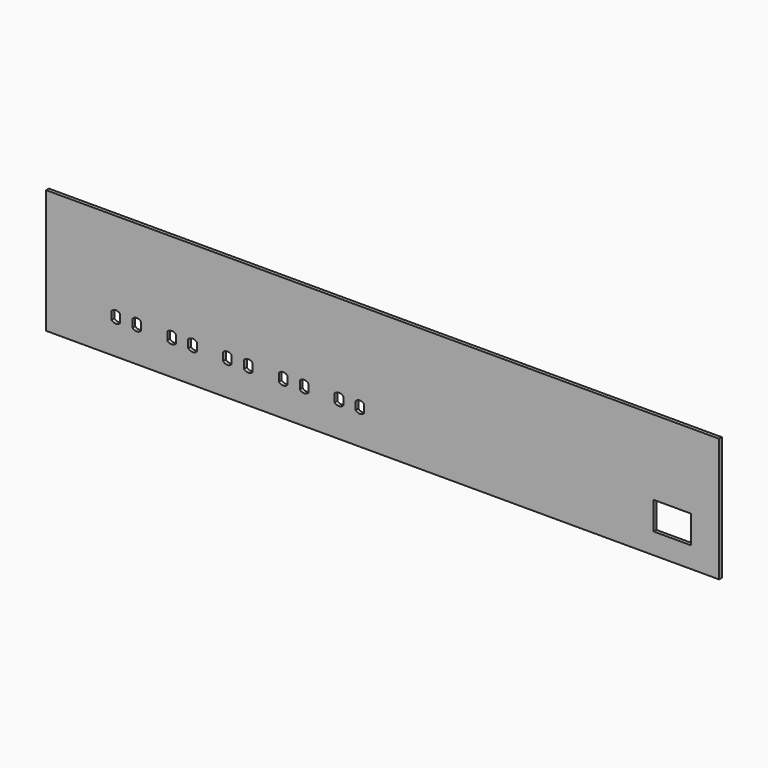
from build123d import *

# Parameters (mm, degrees)
F0_W     = 482.6
F0_H     = 88.8
F2_DEPTH = 2.5
F1_W     = 27
F1_H     = 20
F3_DEPTH = 2.501


with BuildPart() as f2:
    # F0 (on Front) → F2 (new body)
    with BuildSketch(Plane.XZ):
        with Locations((241.3, 44.4)):
            Rectangle(F0_W, F0_H)
    extrude(amount=-F2_DEPTH)

    # F1 (on face) → F3 (cut, through all)
    with BuildSketch(Plane.XZ):
        with Locations((449.1, 25)):
            Rectangle(F1_W, F1_H)
        with BuildLine():
            Line((46.9, 27.907318), (46.9, 22.092682))
            ThreePointArc((46.9, 22.092682), (50, 20.75), (53.1, 22.092682))
            Line((53.1, 22.092682), (53.1, 27.907318))
            ThreePointArc((53.1, 27.907318), (50, 29.25), (46.9, 27.907318))
        make_face()
        with BuildLine():
            Line((61.9, 27.907318), (61.9, 22.092682))
            ThreePointArc((61.9, 22.092682), (65, 20.75), (68.1, 22.092682))
            Line((68.1, 22.092682), (68.1, 27.907318))
            ThreePointArc((68.1, 27.907318), (65, 29.25), (61.9, 27.907318))
        make_face()
        with BuildLine():
            Line((108.1, 22.092682), (108.1, 27.907318))
            ThreePointArc((108.1, 27.907318), (105, 29.25), (101.9, 27.907318))
            Line((101.9, 27.907318), (101.9, 22.092682))
            ThreePointArc((101.9, 22.092682), (105, 20.75), (108.1, 22.092682))
        make_face()
        with BuildLine():
            Line((93.1, 22.092682), (93.1, 27.907318))
            ThreePointArc((93.1, 27.907318), (90, 29.25), (86.9, 27.907318))
            Line((86.9, 27.907318), (86.9, 22.092682))
            ThreePointArc((86.9, 22.092682), (90, 20.75), (93.1, 22.092682))
        make_face()
        with BuildLine():
            Line((148.1, 22.092682), (148.1, 27.907318))
            ThreePointArc((148.1, 27.907318), (145, 29.25), (141.9, 27.907318))
            Line((141.9, 27.907318), (141.9, 22.092682))
            ThreePointArc((141.9, 22.092682), (145, 20.75), (148.1, 22.092682))
        make_face()
        with BuildLine():
            Line((133.1, 22.092682), (133.1, 27.907318))
            ThreePointArc((133.1, 27.907318), (130, 29.25), (126.9, 27.907318))
            Line((126.9, 27.907318), (126.9, 22.092682))
            ThreePointArc((126.9, 22.092682), (130, 20.75), (133.1, 22.092682))
        make_face()
        with BuildLine():
            Line((188.1, 22.092682), (188.1, 27.907318))
            ThreePointArc((188.1, 27.907318), (185, 29.25), (181.9, 27.907318))
            Line((181.9, 27.907318), (181.9, 22.092682))
            ThreePointArc((181.9, 22.092682), (185, 20.75), (188.1, 22.092682))
        make_face()
        with BuildLine():
            Line((173.1, 22.092682), (173.1, 27.907318))
            ThreePointArc((173.1, 27.907318), (170, 29.25), (166.9, 27.907318))
            Line((166.9, 27.907318), (166.9, 22.092682))
            ThreePointArc((166.9, 22.092682), (170, 20.75), (173.1, 22.092682))
        make_face()
        with BuildLine():
            Line((228.1, 22.092682), (228.1, 27.907318))
            ThreePointArc((228.1, 27.907318), (225, 29.25), (221.9, 27.907318))
            Line((221.9, 27.907318), (221.9, 22.092682))
            ThreePointArc((221.9, 22.092682), (225, 20.75), (228.1, 22.092682))
        make_face()
        with BuildLine():
            Line((213.1, 22.092682), (213.1, 27.907318))
            ThreePointArc((213.1, 27.907318), (210, 29.25), (206.9, 27.907318))
            Line((206.9, 27.907318), (206.9, 22.092682))
            ThreePointArc((206.9, 22.092682), (210, 20.75), (213.1, 22.092682))
        make_face()
    extrude(amount=-F3_DEPTH, mode=Mode.SUBTRACT)


solid = f2.part
